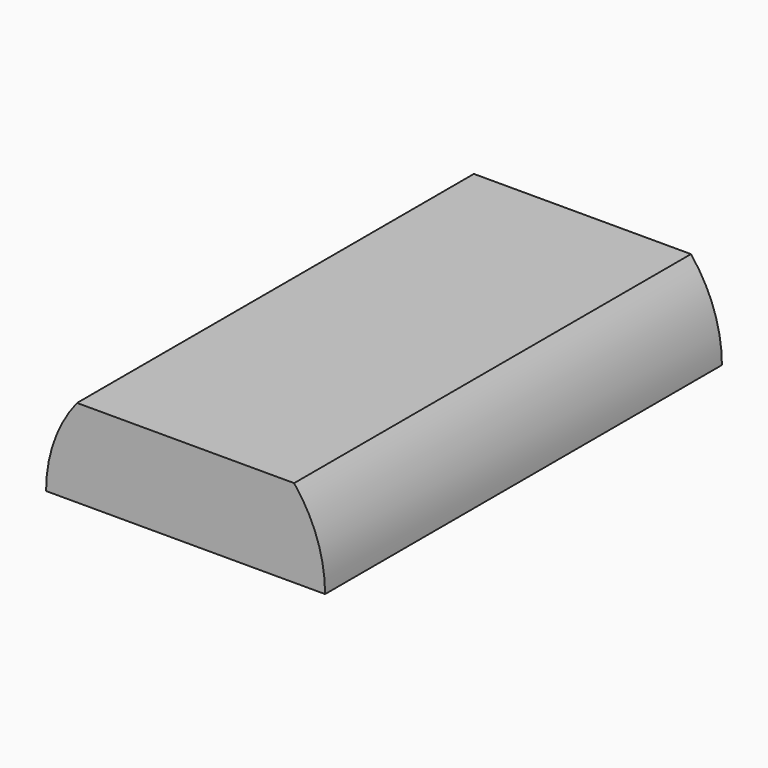
from build123d import *

# Parameters (mm, degrees)
F1_DEPTH = 30.48
F3_DEPTH = 0.762


with BuildPart() as f1:
    # F0 (on Front) → F1 (new body)
    with BuildSketch(Plane.XZ):
        with BuildLine():
            Line((-8.5725, 0), (8.5725, 0))
            ThreePointArc((8.5725, 0), (8.082949, 2.855468), (6.670209, 5.3848))
            Line((6.670209, 5.3848), (-6.670209, 5.3848))
            ThreePointArc((-6.670209, 5.3848), (-8.082949, 2.855468), (-8.5725, 0))
        make_face()
        with BuildLine():
            ThreePointArc((-7.684708, 1.396131), (-7.173881, 3.088582), (-6.295525, 4.6228))
            Line((-6.295525, 4.6228), (6.295525, 4.6228))
            ThreePointArc((6.295525, 4.6228), (7.177049, 3.081214), (7.687559, 1.380345))
            Line((7.687559, 1.380345), (7.874, 1.380345))
            Line((7.874, 1.380345), (7.874, 0.762))
            Line((7.874, 0.762), (7.77324, 0.762))
            Line((7.77324, 0.762), (-7.77324, 0.762))
            Line((-7.77324, 0.762), (-7.874, 0.762))
            Line((-7.874, 0.762), (-7.874, 1.396131))
            Line((-7.874, 1.396131), (-7.684708, 1.396131))
        make_face(mode=Mode.SUBTRACT)
    extrude(amount=-F1_DEPTH)

    # F2 (on face) → F3 (join)
    with BuildSketch(Plane.XZ):
        with BuildLine():
            ThreePointArc((-6.295525, 4.6228), (-7.173881, 3.088582), (-7.684708, 1.396131))
            Line((-7.684708, 1.396131), (-7.874, 1.396131))
            Line((-7.874, 1.396131), (-7.874, 0.762))
            Line((-7.874, 0.762), (7.874, 0.762))
            Line((7.874, 0.762), (7.874, 1.380345))
            Line((7.874, 1.380345), (7.687559, 1.380345))
            ThreePointArc((7.687559, 1.380345), (7.177049, 3.081214), (6.295525, 4.6228))
            Line((6.295525, 4.6228), (-6.295525, 4.6228))
        make_face()
    extrude(amount=-F3_DEPTH)


solid = f1.part
